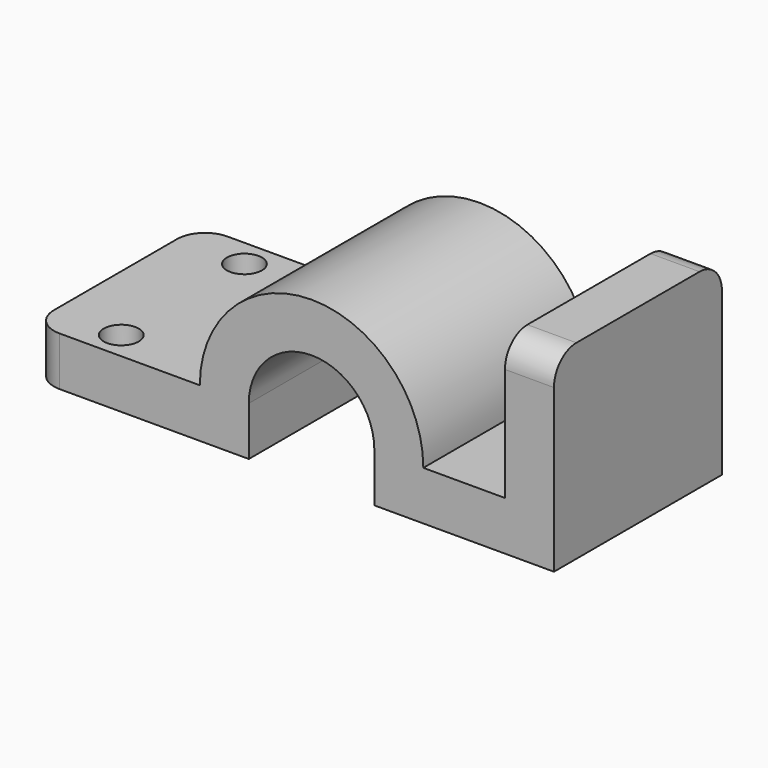
from build123d import *

# Parameters (mm, degrees)
F0_W     = 8.89
F0_H     = 25.618968
F1_DEPTH = 19.05
F2_R     = 5.08
F4_D     = 6.35


with BuildPart() as f1:
    # F0 (on Front) → F1 (new body, symmetric)
    with BuildSketch(Plane.XZ):
        Polygon((-70.550688, 2.037292), (-31.114999, 2.037292), (-31.114999, 10.927292), (-40.004999, 10.927292), (-70.550688, 10.927292), align=None)
        Polygon((0.555625, 10.927292), (-8.334375, 10.927292), (-8.334375, 2.037292), (24.262293, 2.037292), (24.262293, 10.927292), (15.372293, 10.927292), align=None)
        with BuildLine():
            Line((-40.004999, 10.927292), (-31.114999, 10.927292))
            ThreePointArc((-31.114999, 10.927292), (-19.724687, 22.317604), (-8.334375, 10.927292))
            Line((-8.334375, 10.927292), (0.555625, 10.927292))
            ThreePointArc((0.555625, 10.927292), (-19.724687, 31.207604), (-40.004999, 10.927292))
        make_face()
        with Locations((19.817293, 23.736776)):
            Rectangle(F0_W, F0_H)
    extrude(amount=F1_DEPTH, both=True)

    # F2
    f2_edges = [f1.edges().sort_by_distance(p)[0] for p in [
        (-70.550688, -19.05, 6.482292),
        (-70.550688, 19.05, 6.482292),
        (19.817293, -19.05, 36.54626),
        (19.817293, 19.05, 36.54626),
    ]]
    fillet(f2_edges, radius=F2_R)

    # F4 (through all)
    with Locations(Plane.XY.offset(10.927292)):
        with Locations((-58.325827, 13.97), (-58.325827, -13.97)):
            Hole(F4_D / 2)


solid = f1.part
